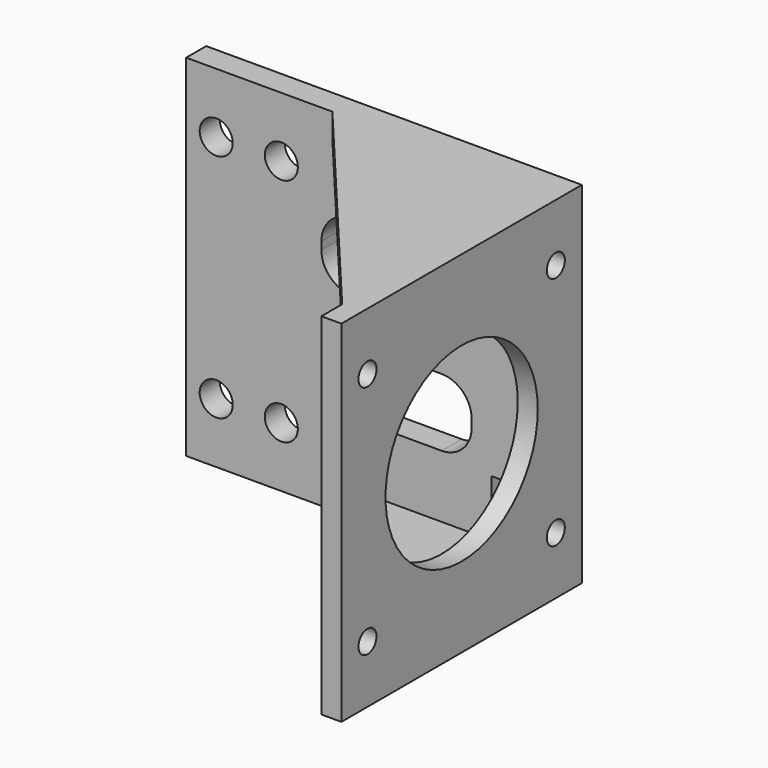
from build123d import *

# Parameters (mm, degrees)
F0_W      = 75
F0_H      = 70
F0_R      = 3.3
F0_W_2    = 30
F0_H_2    = 13.5
F1_DEPTH  = 5
F2_W      = 4
F2_H      = 70
F3_DEPTH  = 55
F4_R      = 19
F4_R_2    = 2.25
F5_DEPTH  = 4
F7_W      = 65.0362595889
F7_H      = 5
F9_R      = 5
F10_DEPTH = 10
F11_R     = 6


with BuildPart() as f1:
    # F0 (on Front) → F1 (new body)
    with BuildSketch(Plane.XZ):
        Rectangle(F0_W, F0_H)
        with Locations((-31.5, -23)):
            Circle(F0_R, mode=Mode.SUBTRACT)
        with Locations((-18.5, -23)):
            Circle(F0_R, mode=Mode.SUBTRACT)
        with Locations((4.5, -10.75)):
            Rectangle(F0_W_2, F0_H_2, mode=Mode.SUBTRACT)
        with Locations((-31.5, 23)):
            Circle(F0_R, mode=Mode.SUBTRACT)
        with Locations((-18.5, 23)):
            Circle(F0_R, mode=Mode.SUBTRACT)
        with Locations((4.5, 10.75)):
            Rectangle(F0_W_2, F0_H_2, mode=Mode.SUBTRACT)
    extrude(amount=F1_DEPTH)

    # F2 (on face) → F3 (join)
    with BuildSketch(Plane.XZ.offset(5)):
        with Locations((35.5, 0)):
            Rectangle(F2_W, F2_H)
    extrude(amount=F3_DEPTH)

    # F4 (on face) → F5 (cut, through all)
    with BuildSketch(Plane.YZ.offset(37.5)):
        with Locations((-30, 0)):
            Circle(F4_R)
        with Locations((-53.5, 23.5)):
            Circle(F4_R_2)
        with Locations((-6.5, 23.5)):
            Circle(F4_R_2)
        with Locations((-6.5, -23.5)):
            Circle(F4_R_2)
        with Locations((-53.5, -23.5)):
            Circle(F4_R_2)
    extrude(amount=-F5_DEPTH, mode=Mode.SUBTRACT)

    # F7 (on line) → F8 (join, up to the next surface of F1)
    with BuildSketch(Plane(origin=(-7.3353011104, -6.1550484563, 0), x_dir=(0.6427876097, -0.7660444431, 0), z_dir=(-0.7660444431, -0.6427876097, 0))):
        with Locations((31.01032112, 32.5)):
            Rectangle(F7_W, F7_H)
        with Locations((31.01032112, -32.5)):
            Rectangle(F7_W, F7_H)
    extrude(until=Until.NEXT, dir=(0.7660444431, 0.6427876097, 0))

    # F9 (on face) → F10 (cut)
    with BuildSketch(Plane(origin=(33.5, 0, 0), x_dir=(0, -1, 0), z_dir=(-1, 0, 0))):
        with Locations((6.5, 23.5000000002)):
            Circle(F9_R)
        with Locations((6.5, -23.4999999998)):
            Circle(F9_R)
    extrude(amount=F10_DEPTH, mode=Mode.SUBTRACT)

    # F11
    f11_edges = [f1.edges().sort_by_distance(p)[0] for p in [
        (-10.5, -2.5, 17.5),
        (19.5, -2.5, 17.5),
        (19.5, -2.5, 4),
        (-10.5, -2.5, 4),
        (19.5, -2.5, -4),
        (19.5, -2.5, -17.5),
        (-10.5, -2.5, -17.5),
        (-10.5, -2.5, -4),
    ]]
    fillet(f11_edges, radius=F11_R)


solid = f1.part
